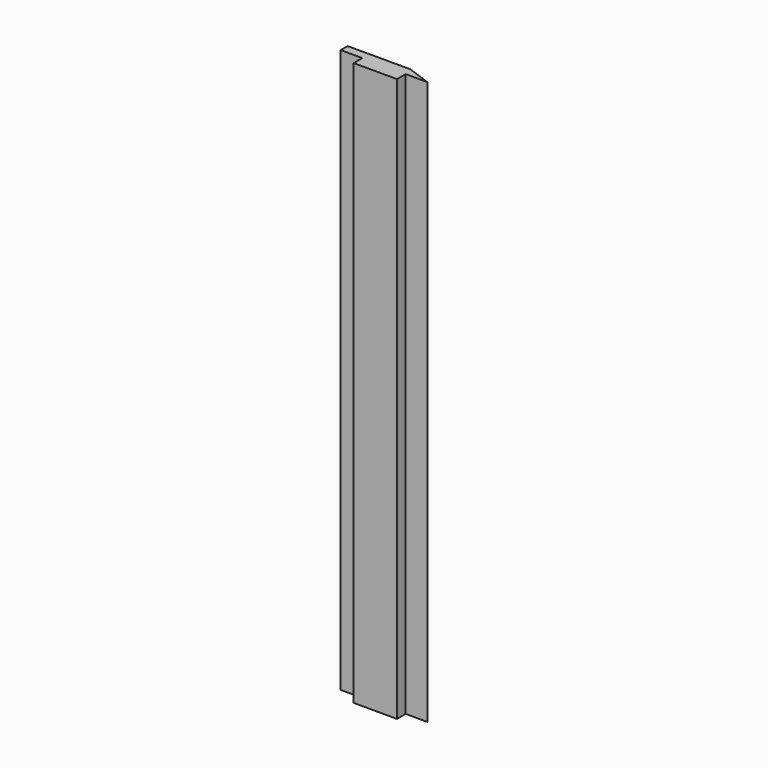
from build123d import *

# Parameters (mm, degrees)
PAD_DEPTH    = 130
SKETCH001_W  = 10
SKETCH001_H  = 130
PAD001_DEPTH = 2.5


with BuildPart() as part:
    # Sketch → Pad (new body)
    with BuildSketch(Plane.XY):
        Polygon((0, 0), (20, 0), (14.505045, 2), (0, 2), align=None)
    extrude(amount=PAD_DEPTH)

    # Sketch001 (on Face1 of Pad) → Pad001 (join)
    with BuildSketch(Plane.XZ):
        with Locations((10, 65)):
            Rectangle(SKETCH001_W, SKETCH001_H)
    extrude(amount=PAD001_DEPTH)


solid = part.part
